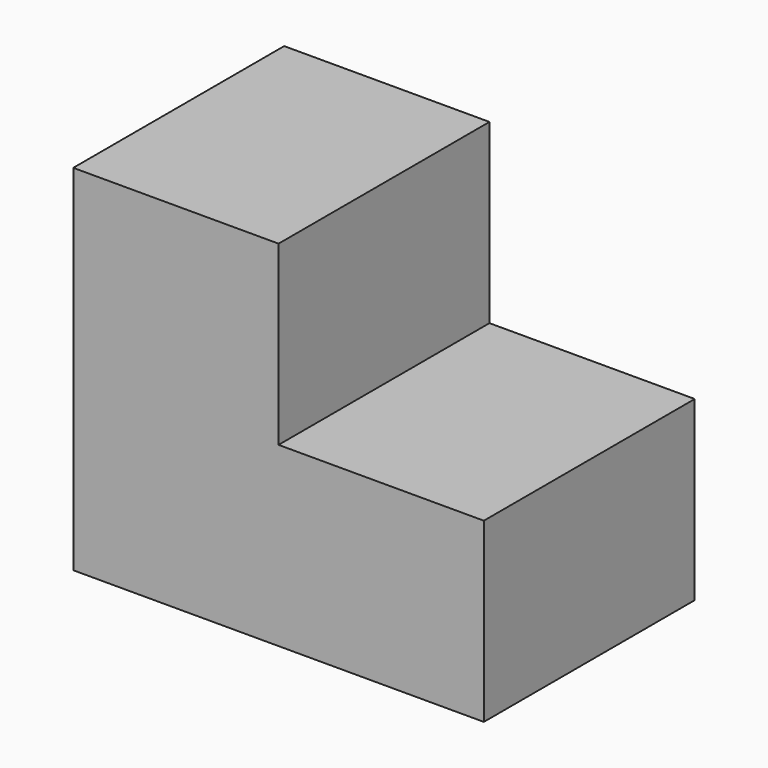
from build123d import *

# Parameters (mm, degrees)
F1_DEPTH = 12.7
F2_W     = 14.7177
F2_H     = 9.450314
F3_DEPTH = 12.7


with BuildPart() as f1:
    # F0 (on Top) → F1 (new body)
    with BuildSketch(Plane.XY):
        Polygon((-14.7177, -9.450314), (14.7177, -9.450314), (14.7177, 9.450314), (-14.7177, 9.450314), (-14.7177, 0), align=None)
    extrude(amount=F1_DEPTH)

    # F2 (on face) → F3 (join)
    with BuildSketch(Plane.XY.offset(12.7)):
        with Locations((-7.35885, -4.725157)):
            Rectangle(F2_W, F2_H)
        with Locations((-7.35885, 4.725157)):
            Rectangle(F2_W, F2_H)
    extrude(amount=F3_DEPTH)


solid = f1.part
